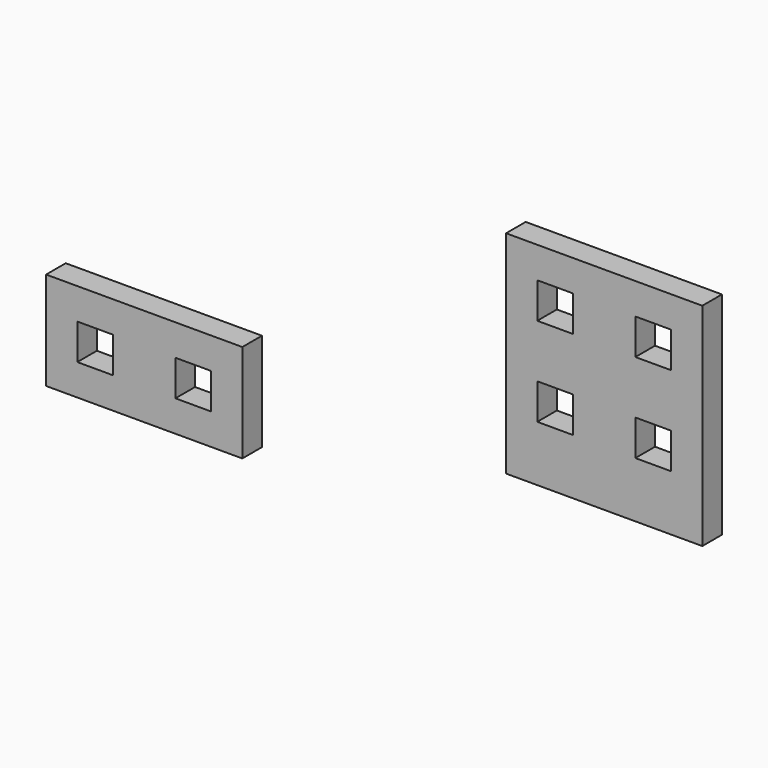
from build123d import *

# Parameters (mm, degrees)
F0_W     = 25.4
F0_H     = 12.7
F0_W_2   = 4.6228
F0_H_2   = 4.6228
F0_H_3   = 27.386816
F1_DEPTH = 3.175


with BuildPart() as f1:
    # F0 (on Front) → F1 (new body)
    with BuildSketch(Plane.XZ):
        with Locations((0, -6.35)):
            Rectangle(F0_W, F0_H)
        with Locations((-6.35, -6.35)):
            Rectangle(F0_W_2, F0_H_2, mode=Mode.SUBTRACT)
        with Locations((6.35, -6.35)):
            Rectangle(F0_W_2, F0_H_2, mode=Mode.SUBTRACT)
        with Locations((59.533277, 10.371986)):
            Rectangle(F0_W, F0_H_3)
        with Locations((53.183277, 6.203578)):
            Rectangle(F0_W_2, F0_H_2, mode=Mode.SUBTRACT)
        with Locations((65.883277, 6.203578)):
            Rectangle(F0_W_2, F0_H_2, mode=Mode.SUBTRACT)
        with Locations((53.183277, 17.715394)):
            Rectangle(F0_W_2, F0_H_2, mode=Mode.SUBTRACT)
        with Locations((65.883277, 17.715394)):
            Rectangle(F0_W_2, F0_H_2, mode=Mode.SUBTRACT)
    extrude(amount=F1_DEPTH)


solid = f1.part
